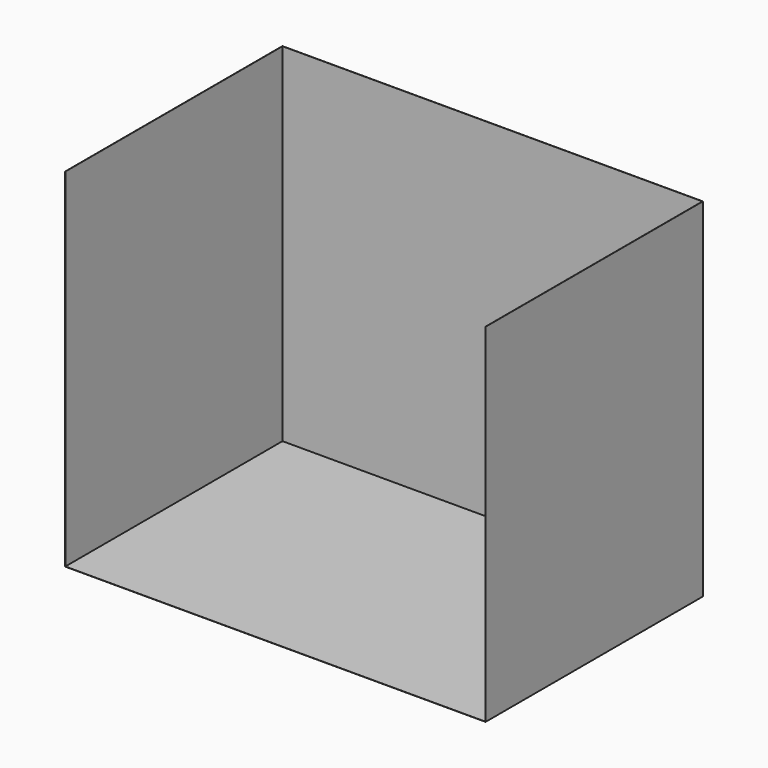
from build123d import *

# Parameters (mm, degrees)
F0_W     = 2260
F0_H     = 1460
F1_DEPTH = 1870
F2_T     = -1


with BuildPart() as f1:
    # F0 (on Top) → F1 (new body)
    with BuildSketch(Plane.XY):
        Rectangle(F0_W, F0_H)
    extrude(amount=F1_DEPTH)

    # F2
    f2_openings = [f1.faces().sort_by_distance(p)[0] for p in [
        (0, 0, 1870),
        (0, -730, 935),
    ]]
    offset(amount=F2_T, openings=f2_openings)


solid = f1.part
